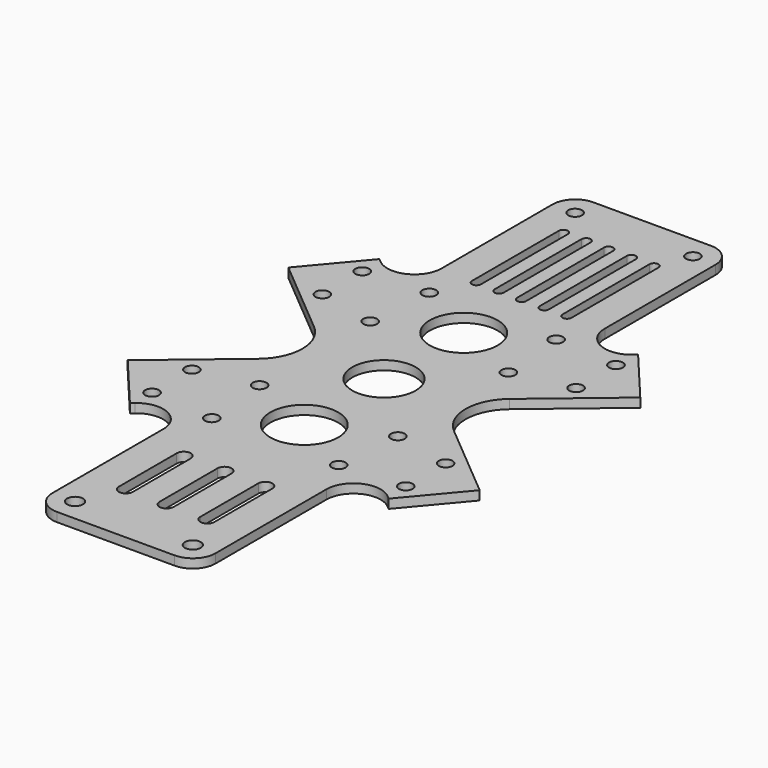
from build123d import *

# Parameters (mm, degrees)
F0_R     = 1.75
F0_R_2   = 1.525
F0_R_3   = 7
F1_DEPTH = 2
F2_R     = 7.5
F3_DEPTH = 25


with BuildPart() as f1:
    # F0 (on Top) → F1 (new body)
    with BuildSketch(Plane.XY):
        with BuildLine():
            Line((-27.856726, 33.817827), (-28.563655, 34.41101))
            Line((-28.563655, 34.41101), (-38.848256, 22.154299))
            Line((-38.848256, 22.154299), (-21.575153, 7.660444))
            ThreePointArc((-21.575153, 7.660444), (-18.003029, 0), (-21.575153, -7.660444))
            Line((-21.575153, -7.660444), (-38.848256, -22.154299))
            Line((-38.848256, -22.154299), (-28.563655, -34.41101))
            Line((-28.563655, -34.41101), (-27.856726, -33.817827))
            ThreePointArc((-27.856726, -33.817827), (-21.46429, -32.976246), (-18, -38.414093))
            Line((-18, -38.414093), (-18, -69))
            ThreePointArc((-18, -69), (-16.535534, -72.535534), (-13, -74))
            Line((-13, -74), (0, -74))
            Line((0, -74), (13, -74))
            ThreePointArc((13, -74), (16.535534, -72.535534), (18, -69))
            Line((18, -69), (18, -38.414093))
            ThreePointArc((18, -38.414093), (21.46429, -32.976246), (27.856726, -33.817827))
            Line((27.856726, -33.817827), (28.563655, -34.41101))
            Line((28.563655, -34.41101), (38.848256, -22.154299))
            Line((38.848256, -22.154299), (21.575153, -7.660444))
            ThreePointArc((21.575153, -7.660444), (18.003029, 0), (21.575153, 7.660444))
            Line((21.575153, 7.660444), (38.848256, 22.154299))
            Line((38.848256, 22.154299), (28.563655, 34.41101))
            Line((28.563655, 34.41101), (27.856726, 33.817827))
            ThreePointArc((27.856726, 33.817827), (21.46429, 32.976246), (18, 38.414093))
            Line((18, 38.414093), (18, 69))
            ThreePointArc((18, 69), (16.535534, 72.535534), (13, 74))
            Line((13, 74), (0, 74))
            Line((0, 74), (-13, 74))
            ThreePointArc((-13, 74), (-16.535534, 72.535534), (-18, 69))
            Line((-18, 69), (-18, 38.414093))
            ThreePointArc((-18, 38.414093), (-21.46429, 32.976246), (-27.856726, 33.817827))
        make_face()
        with Locations((-13, -69)):
            Circle(F0_R, mode=Mode.SUBTRACT)
        with Locations((-28, -29)):
            Circle(F0_R_2, mode=Mode.SUBTRACT)
        with Locations((-28, -18)):
            Circle(F0_R_2, mode=Mode.SUBTRACT)
        with Locations((-14, -30)):
            Circle(F0_R_2, mode=Mode.SUBTRACT)
        with Locations((-15.25, -15.25)):
            Circle(F0_R_2, mode=Mode.SUBTRACT)
        with Locations((13, -69)):
            Circle(F0_R, mode=Mode.SUBTRACT)
        with Locations((14, -30)):
            Circle(F0_R_2, mode=Mode.SUBTRACT)
        with Locations((15.25, -15.25)):
            Circle(F0_R_2, mode=Mode.SUBTRACT)
        with Locations((28, -29)):
            Circle(F0_R_2, mode=Mode.SUBTRACT)
        with Locations((28, -18)):
            Circle(F0_R_2, mode=Mode.SUBTRACT)
        with Locations((-28, 18)):
            Circle(F0_R_2, mode=Mode.SUBTRACT)
        with Locations((-28, 29)):
            Circle(F0_R_2, mode=Mode.SUBTRACT)
        with Locations((-15.25, 15.25)):
            Circle(F0_R_2, mode=Mode.SUBTRACT)
        with Locations((-14, 30)):
            Circle(F0_R_2, mode=Mode.SUBTRACT)
        with Locations((-13, 69)):
            Circle(F0_R_2, mode=Mode.SUBTRACT)
        Circle(F0_R_3, mode=Mode.SUBTRACT)
        with Locations((15.25, 15.25)):
            Circle(F0_R_2, mode=Mode.SUBTRACT)
        with Locations((14, 30)):
            Circle(F0_R_2, mode=Mode.SUBTRACT)
        with Locations((28, 18)):
            Circle(F0_R_2, mode=Mode.SUBTRACT)
        with Locations((28, 29)):
            Circle(F0_R_2, mode=Mode.SUBTRACT)
        with Locations((13, 69)):
            Circle(F0_R_2, mode=Mode.SUBTRACT)
    extrude(amount=F1_DEPTH)

    # F2 (on face) → F3 (cut)
    with BuildSketch(Plane.XY.offset(2)):
        with Locations((0, -22)):
            Circle(F2_R)
        with Locations((0, 22)):
            Circle(F2_R)
        with BuildLine():
            ThreePointArc((-7.45, -44), (-9, -42.45), (-10.55, -44))
            Line((-10.55, -44), (-10.55, -60))
            ThreePointArc((-10.55, -60), (-9, -61.55), (-7.45, -60))
            Line((-7.45, -60), (-7.45, -44))
        make_face()
        with BuildLine():
            ThreePointArc((1.55, -44), (0, -42.45), (-1.55, -44))
            Line((-1.55, -44), (-1.55, -60))
            ThreePointArc((-1.55, -60), (0, -61.55), (1.55, -60))
            Line((1.55, -60), (1.55, -44))
        make_face()
        with BuildLine():
            ThreePointArc((10.55, -44), (9, -42.45), (7.45, -44))
            Line((7.45, -44), (7.45, -60))
            ThreePointArc((7.45, -60), (9, -61.55), (10.55, -60))
            Line((10.55, -60), (10.55, -44))
        make_face()
        with BuildLine():
            ThreePointArc((-9, 62), (-10, 63), (-11, 62))
            Line((-11, 62), (-11, 38))
            ThreePointArc((-11, 38), (-10, 37), (-9, 38))
            Line((-9, 38), (-9, 62))
        make_face()
        with BuildLine():
            ThreePointArc((-4, 62), (-5, 63), (-6, 62))
            Line((-6, 62), (-6, 38))
            ThreePointArc((-6, 38), (-5, 37), (-4, 38))
            Line((-4, 38), (-4, 62))
        make_face()
        with BuildLine():
            ThreePointArc((1, 62), (0, 63), (-1, 62))
            Line((-1, 62), (-1, 38))
            ThreePointArc((-1, 38), (0, 37), (1, 38))
            Line((1, 38), (1, 62))
        make_face()
        with BuildLine():
            ThreePointArc((6, 62), (5, 63), (4, 62))
            Line((4, 62), (4, 38))
            ThreePointArc((4, 38), (5, 37), (6, 38))
            Line((6, 38), (6, 62))
        make_face()
        with BuildLine():
            ThreePointArc((11, 62), (10, 63), (9, 62))
            Line((9, 62), (9, 38))
            ThreePointArc((9, 38), (10, 37), (11, 38))
            Line((11, 38), (11, 62))
        make_face()
    extrude(amount=-F3_DEPTH, mode=Mode.SUBTRACT)


solid = f1.part
